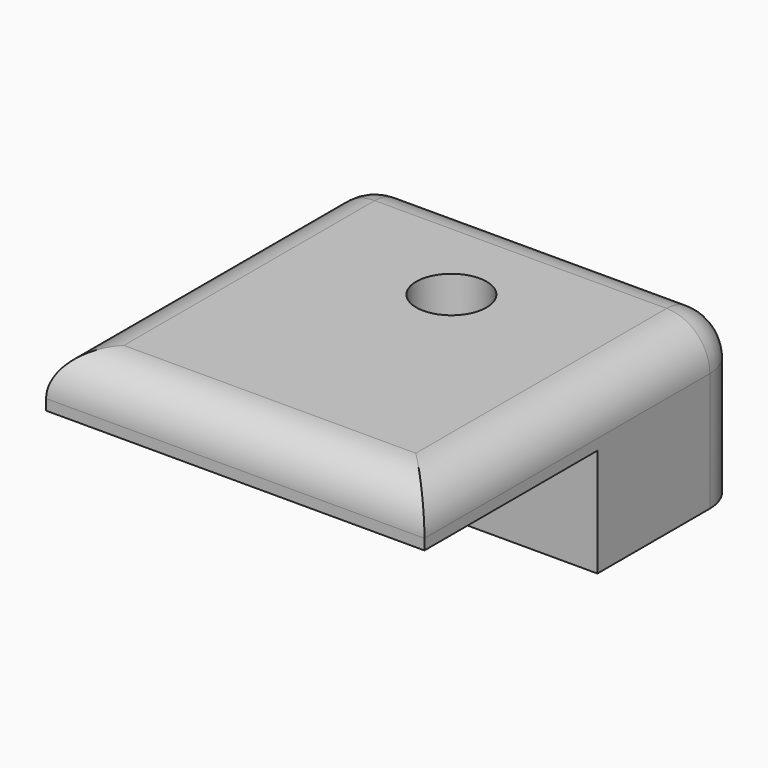
from build123d import *

# Parameters (mm, degrees)
F0_W     = 35
F0_H     = 15
F1_DEPTH = 17
F2_W     = 35
F2_H     = 4.99
F3_DEPTH = 20
F5_DEPTH = 13
F7_DEPTH = 25
F8_W     = 5
F8_H     = 5
F9_DEPTH = 3
F10_R    = 4


with BuildPart() as f1:
    # F0 (on Front) → F1 (new body)
    with BuildSketch(Plane.XZ):
        with Locations((-4.829492, -4.074684)):
            Rectangle(F0_W, F0_H)
    extrude(amount=F1_DEPTH)

    # F2 (on face) → F3 (join)
    with BuildSketch(Plane.XZ.offset(17)):
        with Locations((-4.829492, 0.930316)):
            Rectangle(F2_W, F2_H)
    extrude(amount=F3_DEPTH)

    # F4 (on face) → F5 (cut)
    with BuildSketch(Plane.XZ.offset(17)):
        Polygon((-11.329492, -7.574684), (-4.829492, -7.574684), (1.670508, -7.574684), (1.670508, -1.574684), (-11.329492, -1.574684), align=None)
    extrude(amount=-F5_DEPTH, mode=Mode.SUBTRACT)

    # F6 (on face) → F7 (cut)
    with BuildSketch(Plane(origin=(0, 0, -11.574684), x_dir=(1, 0, 0), z_dir=(0, 0, -1))):
        with BuildLine():
            ThreePointArc((-1.579492, 12.01), (-2.531395, 14.308097), (-4.829492, 15.26))
            ThreePointArc((-4.829492, 15.26), (-7.127589, 9.711903), (-1.579492, 12.01))
        make_face()
    extrude(amount=-F7_DEPTH, mode=Mode.SUBTRACT)

    # F8 (on face) → F9 (cut)
    with BuildSketch(Plane(origin=(0, 0, 0), x_dir=(-1, 0, 0), z_dir=(0, 1, 0))):
        with Locations((4.829492, -4.074684)):
            Rectangle(F8_W, F8_H)
        with Locations((4.829492, -4.074684)):
            Rectangle(F8_W, F8_H)
    extrude(amount=-F9_DEPTH, mode=Mode.SUBTRACT)

    # F10
    f10_edges = [f1.edges().sort_by_distance(p)[0] for p in [
        (12.670508, -18.5, 3.425316),
        (-4.829492, -37, 3.425316),
        (-22.329492, -18.5, 3.425316),
        (-4.829492, 0, 3.425316),
        (-22.329492, 0, -4.074684),
        (12.670508, 0, -4.074684),
    ]]
    fillet(f10_edges, radius=F10_R)


solid = f1.part
